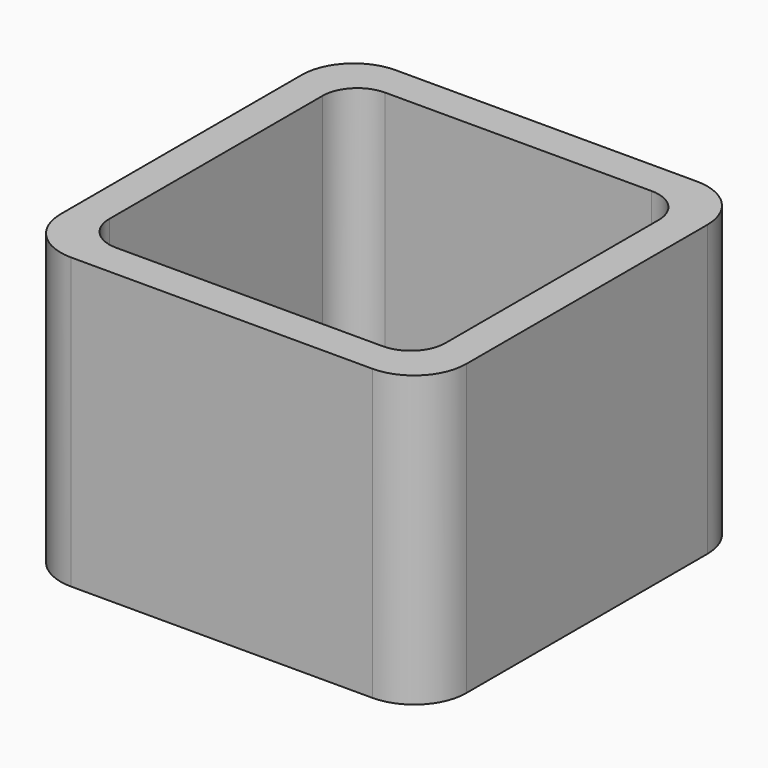
from build123d import *

# Parameters (mm, degrees)
EXTRUDE_DEPTH = 50


with BuildPart() as part:
    # Sketch → Extrude (new body)
    with BuildSketch(Plane.XY):
        with BuildLine():
            Line((-26, 35), (26, 35))
            ThreePointArc((35, 26), (32.363961, 32.363961), (26, 35))
            Line((35, 26), (35, -26))
            ThreePointArc((26, -35), (32.363961, -32.363961), (35, -26))
            Line((26, -35), (-26, -35))
            ThreePointArc((-35, -26), (-32.363961, -32.363961), (-26, -35))
            Line((-35, -26), (-35, 26))
            ThreePointArc((-26, 35), (-32.363961, 32.363961), (-35, 26))
        make_face()
        with BuildLine():
            Line((-23, 29), (23, 29))
            ThreePointArc((29, 23), (27.242641, 27.242641), (23, 29))
            Line((29, 23), (29, -23))
            ThreePointArc((23, -29), (27.242641, -27.242641), (29, -23))
            Line((23, -29), (-23, -29))
            ThreePointArc((-29, -23), (-27.242641, -27.242641), (-23, -29))
            Line((-29, -23), (-29, 23))
            ThreePointArc((-23, 29), (-27.242641, 27.242641), (-29, 23))
        make_face(mode=Mode.SUBTRACT)
    extrude(amount=EXTRUDE_DEPTH)


solid = part.part
